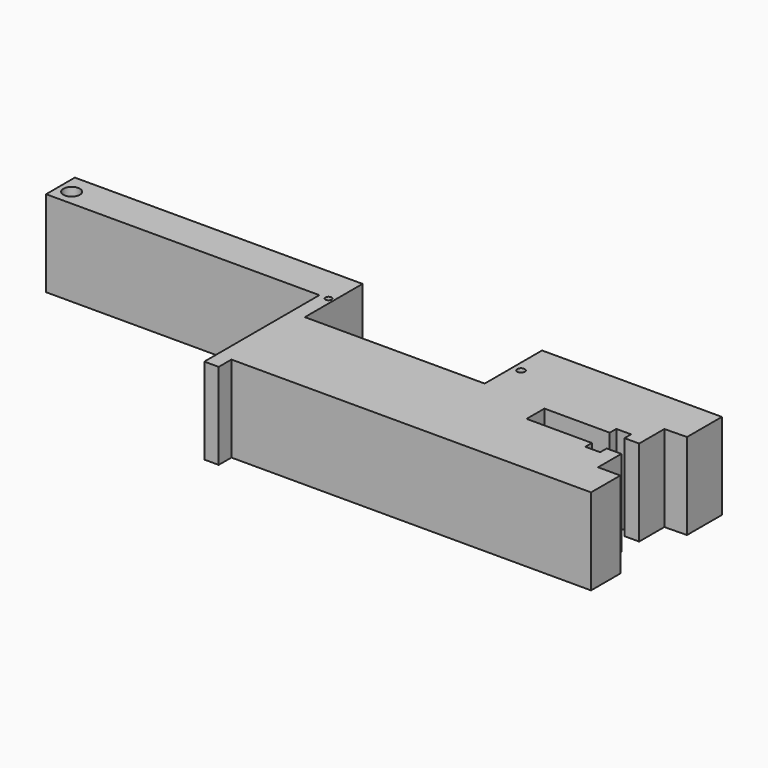
from build123d import *

# Parameters (mm, degrees)
F0_W     = 96.52
F0_H     = 12.7
F0_R     = 2.9138087253
F0_R_2   = 1.326713747
F0_W_2   = 5.1718056202
F0_H_2   = 1.3690460473
F1_DEPTH = 5.08
F2_DEPTH = 25.4


with BuildPart() as f1:
    # F0 (on Top) → F1 (new body)
    with BuildSketch(Plane.XY):
        with Locations((-47.4354136491, 31.2451986432)):
            Rectangle(F0_W, F0_H)
        with Locations((-91.094493866, 30.4354578257)):
            Circle(F0_R, mode=Mode.SUBTRACT)
        with BuildLine():
            Line((5.9045863509, 37.5951986432), (0.8245863509, 37.5951986432))
            Line((0.8245863509, 37.5951986432), (0.8245863509, 24.8951986432))
            Line((0.8245863509, 24.8951986432), (2.9756855002, 24.8951986432))
            ThreePointArc((2.9756855002, 24.8951986432), (4.0461537428, 25.9656668859), (5.1166219855, 24.8951986432))
            Line((5.1166219855, 24.8951986432), (5.9045863509, 24.8951986432))
            Line((5.9045863509, 24.8951986432), (5.9045863509, 37.5951986432))
        make_face()
        with BuildLine():
            Line((2.9756855002, 24.8951986432), (0.8245863509, 24.8951986432))
            Line((0.8245863509, 24.8951986432), (0.8245863509, -25.9048013568))
            Line((0.8245863509, -25.9048013568), (5.9045863509, -25.9048013568))
            Line((5.9045863509, -25.9048013568), (5.9045863509, -20.2903039753))
            Line((5.9045863509, -20.2903039753), (5.9045863509, 12.137984857))
            Line((5.9045863509, 12.137984857), (5.9045863509, 24.8951986432))
            Line((5.9045863509, 24.8951986432), (5.1166219855, 24.8951986432))
            ThreePointArc((5.1166219855, 24.8951986432), (4.0461537428, 23.8247304006), (2.9756855002, 24.8951986432))
        make_face()
        Polygon((69.4045863509, 12.137984857), (5.9045863509, 12.137984857), (5.9045863509, -20.2903039753), (132.9045863509, -20.2903039753), (132.9045863509, -7.370875217), (125.046864152, -7.370875217), (125.046864152, 2.8969440609), (119.8750585318, 2.8969440609), (119.8750585318, 0), (114.6555840969, 0), (114.6555840969, 2.8969440609), (91.592296958, 2.8969440609), (91.592296958, 10.7689388096), (114.6555840969, 10.7689388096), (114.6555840969, 12.137984857), align=None)
        Polygon((69.4045863509, 37.4652706087), (69.4045863509, 12.137984857), (114.6555840969, 12.137984857), (114.6555840969, 13.6750694364), (119.8750585318, 13.6750694364), (119.8750585318, 12.137984857), (125.046864152, 12.137984857), (125.046864152, 21.8924097717), (132.9101818387, 22.0635451896), (132.9188644886, 37.4652706087), align=None)
        with Locations((72.3235607147, 24.5336871594)):
            Circle(F0_R_2, mode=Mode.SUBTRACT)
        with Locations((122.4609613419, 11.4534618333)):
            Rectangle(F0_W_2, F0_H_2)
    extrude(amount=F1_DEPTH)

    # F2 (add): a face of the model
    f2_faces = [f1.faces().sort_by_distance(p)[0] for p in [
        (49.3916021575, 8.7210816902, 5.08),
    ]]
    extrude(f2_faces, amount=F2_DEPTH)


solid = f1.part
